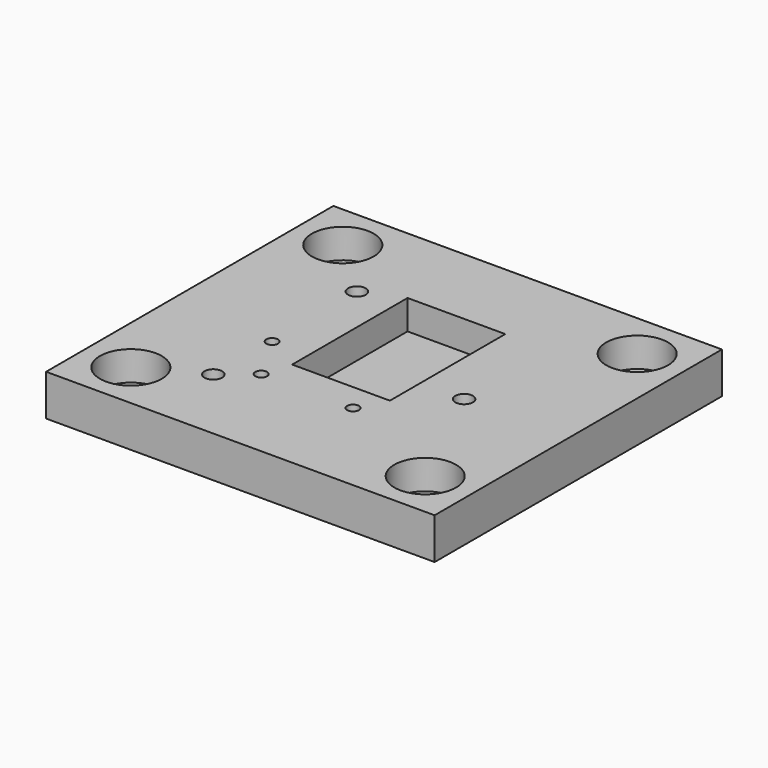
from build123d import *

# Parameters (mm, degrees)
SKETCH023_W     = 66
SKETCH023_H     = 61
SKETCH023_R     = 1.5
SKETCH023_R_2   = 1
SKETCH023_R_3   = 5.25
PAD016_DEPTH    = 2
SKETCH025_W     = 66
SKETCH025_H     = 61
PAD017_DEPTH    = 5
SKETCH024_R     = 5.25
SKETCH024_R_2   = 1
POCKET006_DEPTH = 3
SKETCH026_W     = 16.6
SKETCH026_H     = 24.5
POCKET007_DEPTH = 5
SKETCH029_R     = 1
POCKET009_DEPTH = 5


with BuildPart() as part:
    # Sketch023 (on DatumPlane) → Pad016 (new body)
    with BuildSketch(Plane(origin=(0, 0, -2), x_dir=(1, 0, 0), z_dir=(0, 0, -1))):
        with Locations((13, 26.5)):
            Rectangle(SKETCH023_W, SKETCH023_H)
        with Locations((-2.2, 43.75)):
            Circle(SKETCH023_R, mode=Mode.SUBTRACT)
        with Locations((2.7, 39.7)):
            Circle(SKETCH023_R_2, mode=Mode.SUBTRACT)
        with Locations((18.3, 39.7)):
            Circle(SKETCH023_R_2, mode=Mode.SUBTRACT)
        with Locations((28.2, 28.5)):
            Circle(SKETCH023_R, mode=Mode.SUBTRACT)
        with Locations((-2.2, 13.25)):
            Circle(SKETCH023_R, mode=Mode.SUBTRACT)
        with Locations((-12, 49)):
            Circle(SKETCH023_R_3, mode=Mode.SUBTRACT)
        with Locations((38, 49)):
            Circle(SKETCH023_R_3, mode=Mode.SUBTRACT)
        with Locations((-12, 4)):
            Circle(SKETCH023_R_3, mode=Mode.SUBTRACT)
        with Locations((38, 4)):
            Circle(SKETCH023_R_3, mode=Mode.SUBTRACT)
    extrude(amount=PAD016_DEPTH)

    # Sketch025 (on Face15 of Pad016) → Pad017 (join)
    with BuildSketch(Plane(origin=(0, 0, -4), x_dir=(1, 0, 0), z_dir=(0, 0, -1))):
        with Locations((13, 26.5)):
            Rectangle(SKETCH025_W, SKETCH025_H)
        Polygon((-2.838178, 47.096052), (-5.416855, 44.870347), (-4.778677, 41.524295), (-1.561822, 40.403948), (1.016855, 42.629653), (0.378677, 45.975705), align=None, mode=Mode.SUBTRACT)
        Polygon((29.500297, 25.351578), (31.576762, 28.051879), (30.276465, 31.200301), (26.899703, 31.648422), (24.823238, 28.948121), (26.123535, 25.799699), align=None, mode=Mode.SUBTRACT)
        Polygon((1.087429, 14.142269), (-1.329013, 16.543131), (-4.616442, 15.650863), (-5.487429, 12.357731), (-3.070987, 9.956869), (0.216442, 10.849137), align=None, mode=Mode.SUBTRACT)
    extrude(amount=PAD017_DEPTH)

    # Sketch024 (on Face15 of Pad016) → Pocket006 (cut)
    with BuildSketch(Plane(origin=(0, 0, -4), x_dir=(1, 0, 0), z_dir=(0, 0, -1))):
        with Locations((-12, 4)):
            Circle(SKETCH024_R)
        with Locations((-12, 49)):
            Circle(SKETCH024_R)
        with Locations((38, 49)):
            Circle(SKETCH024_R)
        with Locations((38, 4)):
            Circle(SKETCH024_R)
        with Locations((2.7, 39.7)):
            Circle(SKETCH024_R_2)
        with Locations((18.3, 39.7)):
            Circle(SKETCH024_R_2)
    extrude(amount=POCKET006_DEPTH, mode=Mode.SUBTRACT)

    # Sketch026 (on Face4 of Pocket006) → Pocket007 (cut)
    with BuildSketch(Plane.XY.offset(-2)):
        with Locations((12.5, -22.75)):
            Rectangle(SKETCH026_W, SKETCH026_H)
    extrude(amount=-POCKET007_DEPTH, mode=Mode.SUBTRACT)

    # Sketch029 (on Face4 of Pocket007) → Pocket009 (cut)
    with BuildSketch(Plane.XY.offset(-2)):
        with Locations((-2, -31.489113)):
            Circle(SKETCH029_R)
    extrude(amount=-POCKET009_DEPTH, mode=Mode.SUBTRACT)


solid = part.part
